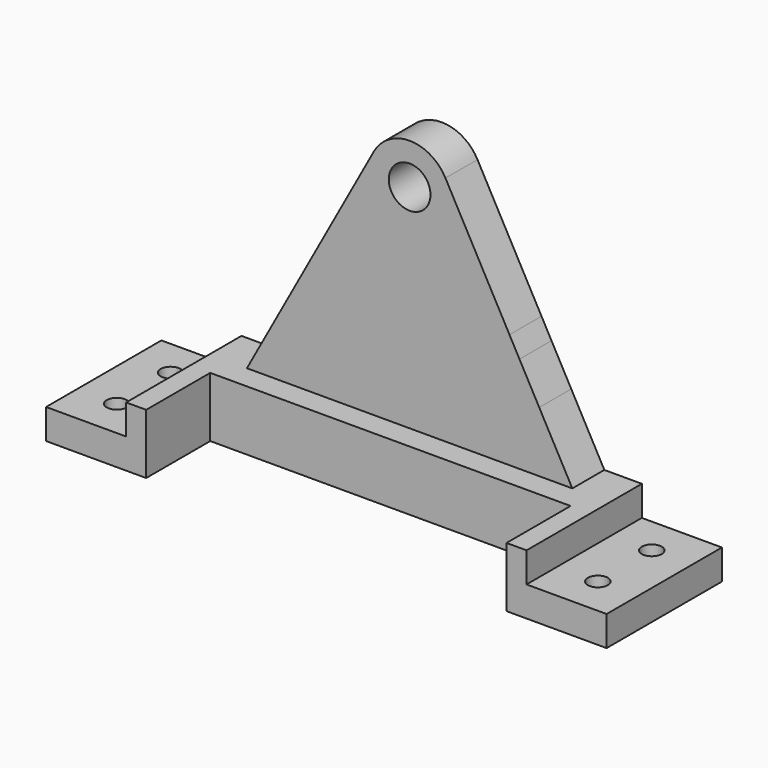
from build123d import *

# Parameters (mm, degrees)
F0_R     = 6.604
F1_DEPTH = 12.7
F2_DEPTH = 45.72
F3_R     = 3.175
F4_DEPTH = 9.526
F5_W     = 114.3
F5_H     = 25.4
F6_DEPTH = 99.363775


with BuildPart() as f1:
    # F0 (on Front) → F1 (new body)
    with BuildSketch(Plane.XZ):
        with BuildLine():
            Line((34.847204, -35.512234), (31.675881, -29.713739))
            Line((31.675881, -29.713739), (11.365242, 7.42254))
            ThreePointArc((11.365242, 7.42254), (0, 14.160641), (-11.365242, 7.42254))
            Line((-11.365242, 7.42254), (-31.85621, -30.043455))
            Line((-31.85621, -30.043455), (-35.018866, -35.826104))
            Line((-35.018866, -35.826104), (-41.272096, -47.259603))
            Line((-41.272096, -47.259603), (-51.604832, -66.152134))
            Line((-51.604832, -66.152134), (51.604832, -66.152134))
            Line((51.604832, -66.152134), (41.11215, -46.967155))
            Line((41.11215, -46.967155), (34.847204, -35.512234))
        make_face()
        with Locations((0, 1.206641)):
            Circle(F0_R, mode=Mode.SUBTRACT)
    extrude(amount=F1_DEPTH)

    # F0 (on Front) → F2 (join)
    with BuildSketch(Plane.XZ):
        Polygon((63.5, -66.152134), (51.604832, -66.152134), (-51.604832, -66.152134), (-63.5, -66.152134), (-63.5, -75.677134), (-88.9, -75.677134), (-88.9, -85.202134), (88.9, -85.202134), (88.9, -75.677134), (63.5, -75.677134), align=None)
    extrude(amount=F2_DEPTH)

    # F3 (on face) → F4 (cut, through all)
    with BuildSketch(Plane.XY.offset(-75.677134)):
        with Locations((-76.302797, -12.066366)):
            Circle(F3_R)
        with Locations((-76.302797, -33.448037)):
            Circle(F3_R)
        with Locations((76.302797, -12.066366)):
            Circle(F3_R)
        with Locations((76.302797, -33.448037)):
            Circle(F3_R)
    extrude(amount=-F4_DEPTH, mode=Mode.SUBTRACT)

    # F5 (on face) → F6 (cut, through all)
    with BuildSketch(Plane(origin=(0, 0, -85.202134), x_dir=(1, 0, 0), z_dir=(0, 0, -1))):
        with Locations((0, 33.02)):
            Rectangle(F5_W, F5_H)
    extrude(amount=-F6_DEPTH, mode=Mode.SUBTRACT)


solid = f1.part
